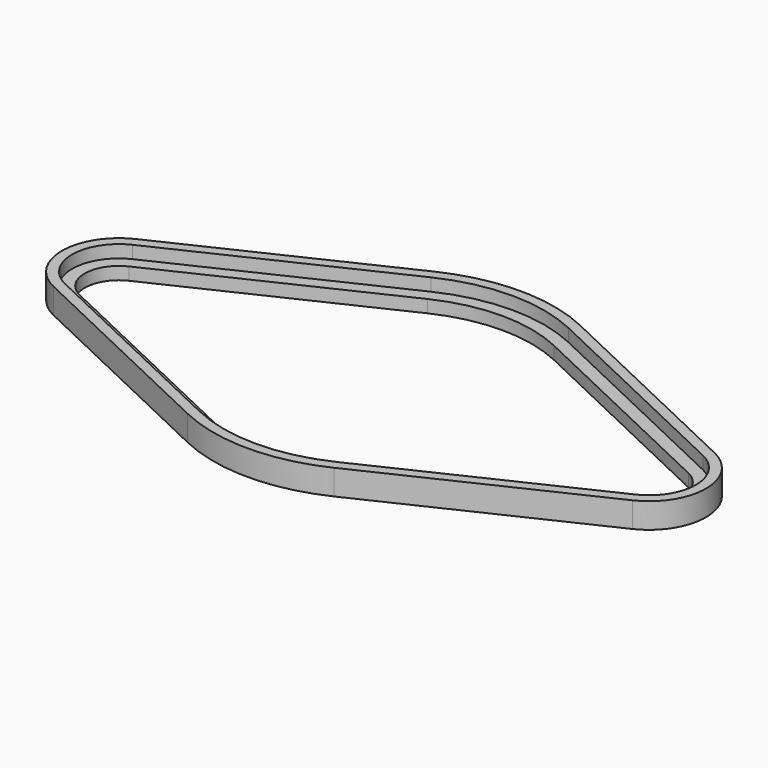
from build123d import *

# Parameters (mm, degrees)
PAD_DEPTH       = 2
POCKET_DEPTH    = 1
POCKET001_DEPTH = 1.001


with BuildPart() as part:
    # Sketch → Pad (new body)
    with BuildSketch(Plane.XY):
        with BuildLine():
            Line((-22.928591, 4.065776), (-5.785719, 12.197355))
            ThreePointArc((5.785719, 12.197355), (0, 13.5), (-5.785719, 12.197355))
            Line((5.785719, 12.197355), (22.928591, 4.065776))
            ThreePointArc((22.928592, -4.065776), (25.5, 0), (22.928591, 4.065776))
            Line((22.928592, -4.065776), (5.785719, -12.197354))
            ThreePointArc((-5.785719, -12.197354), (0, -13.5), (5.785719, -12.197354))
            Line((-5.785719, -12.197354), (-22.928592, -4.065776))
            ThreePointArc((-22.928591, 4.065776), (-25.5, 0), (-22.928592, -4.065776))
        make_face()
    extrude(amount=PAD_DEPTH)

    # Sketch001 → Pocket (cut)
    with BuildSketch(Plane.XY.offset(2)):
        with BuildLine():
            Line((-22.58573, 3.342972), (-5.442864, 11.474547))
            ThreePointArc((5.442864, 11.474547), (0, 12.7), (-5.442864, 11.474547))
            Line((5.442864, 11.474547), (22.58573, 3.342972))
            ThreePointArc((22.58573, -3.342972), (24.7, 0), (22.58573, 3.342972))
            Line((22.58573, -3.342972), (5.442864, -11.474547))
            ThreePointArc((-5.442864, -11.474547), (0, -12.7), (5.442864, -11.474547))
            Line((-5.442864, -11.474547), (-22.58573, -3.342972))
            ThreePointArc((-22.58573, 3.342972), (-24.7, 0), (-22.58573, -3.342972))
        make_face()
    extrude(amount=-POCKET_DEPTH, mode=Mode.SUBTRACT)

    # Sketch002 → Pocket001 (cut, through all)
    with BuildSketch(Plane.XY.offset(1)):
        with BuildLine():
            Line((-22.157141, 2.439472), (-5.014263, 10.571053))
            ThreePointArc((5.014263, 10.571053), (0, 11.7), (-5.014263, 10.571053))
            Line((5.014263, 10.571053), (22.157141, 2.439472))
            ThreePointArc((22.157142, -2.439472), (23.7, 1e-06), (22.157141, 2.439472))
            Line((22.157142, -2.439472), (5.014261, -10.571054))
            ThreePointArc((-5.014261, -10.571054), (0, -11.7), (5.014261, -10.571054))
            Line((-5.014261, -10.571054), (-22.157142, -2.439472))
            ThreePointArc((-22.157141, 2.439472), (-23.7, 1e-06), (-22.157142, -2.439472))
        make_face()
    extrude(amount=-POCKET001_DEPTH, mode=Mode.SUBTRACT)


solid = part.part
